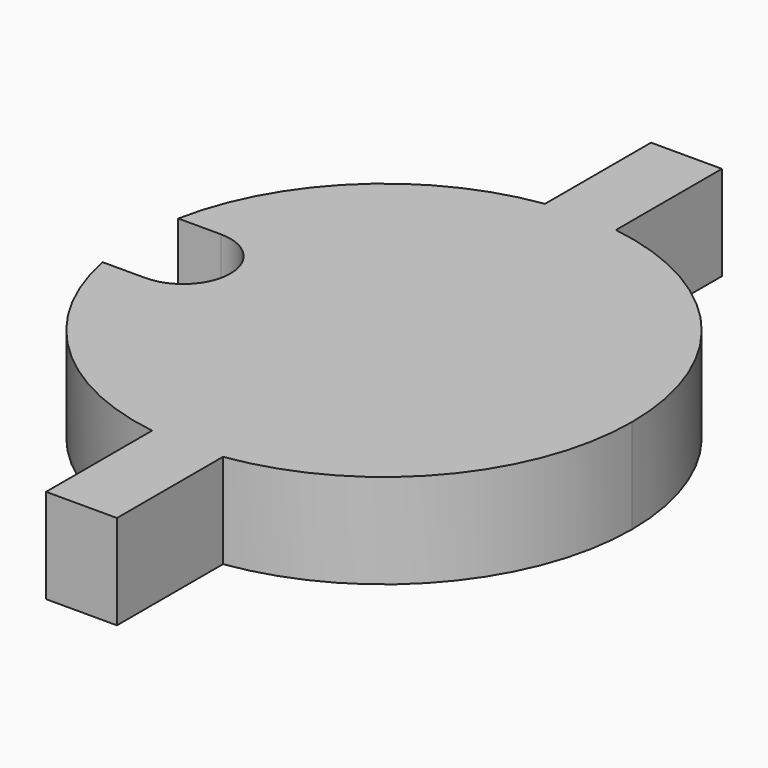
from build123d import *

# Parameters (mm, degrees)
F1_DEPTH = 2


with BuildPart() as f1:
    # F0 (on Top) → F1 (new body)
    with BuildSketch(Plane.XY):
        with BuildLine():
            Line((0.75, -5.1961524227), (0.75, 5.1961524227))
            ThreePointArc((0.75, 5.1961524227), (0, 5.25), (-0.75, 5.1961524227))
            Line((-0.75, 5.1961524227), (-0.75, -5.1961524227))
            ThreePointArc((-0.75, -5.1961524227), (0, -5.25), (0.75, -5.1961524227))
        make_face()
        with BuildLine():
            Line((-0.75, -5.1961524227), (-0.75, 5.1961524227))
            ThreePointArc((-0.75, 5.1961524227), (-3.6215852262, 3.8008710119), (-5.153882032, 1))
            Line((-5.153882032, 1), (-4.25, 1))
            ThreePointArc((-4.25, 1), (-3.5428932188, 0.7071067812), (-3.25, 0))
            ThreePointArc((-3.25, 0), (-3.5428932188, -0.7071067812), (-4.25, -1))
            Line((-4.25, -1), (-5.153882032, -1))
            ThreePointArc((-5.153882032, -1), (-3.6215852262, -3.8008710119), (-0.75, -5.1961524227))
        make_face()
        with BuildLine():
            Line((-0.75, -5.1961524227), (-0.75, 5.1961524227))
            ThreePointArc((-0.75, 5.1961524227), (-3.6215852262, 3.8008710119), (-5.153882032, 1))
            Line((-5.153882032, 1), (-4.25, 1))
            ThreePointArc((-4.25, 1), (-3.5428932188, 0.7071067812), (-3.25, 0))
            ThreePointArc((-3.25, 0), (-3.5428932188, -0.7071067812), (-4.25, -1))
            Line((-4.25, -1), (-5.153882032, -1))
            ThreePointArc((-5.153882032, -1), (-3.6215852262, -3.8008710119), (-0.75, -5.1961524227))
        make_face()
        with BuildLine():
            ThreePointArc((0.75, -5.1961524227), (3.9686269666, -3.4369317712), (5.25, 0))
            ThreePointArc((5.25, 0), (3.9686269666, 3.4369317712), (0.75, 5.1961524227))
            Line((0.75, 5.1961524227), (0.75, -5.1961524227))
        make_face()
        with BuildLine():
            ThreePointArc((-0.75, 5.1961524227), (0, 5.25), (0.75, 5.1961524227))
            Line((0.75, 5.1961524227), (0.75, 8))
            Line((0.75, 8), (-0.75, 8))
            Line((-0.75, 8), (-0.75, 5.1961524227))
        make_face()
        with BuildLine():
            Line((0.75, -8), (0.75, -5.1961524227))
            ThreePointArc((0.75, -5.1961524227), (0, -5.25), (-0.75, -5.1961524227))
            Line((-0.75, -5.1961524227), (-0.75, -8))
            Line((-0.75, -8), (0.75, -8))
        make_face()
    extrude(amount=F1_DEPTH)


solid = f1.part
